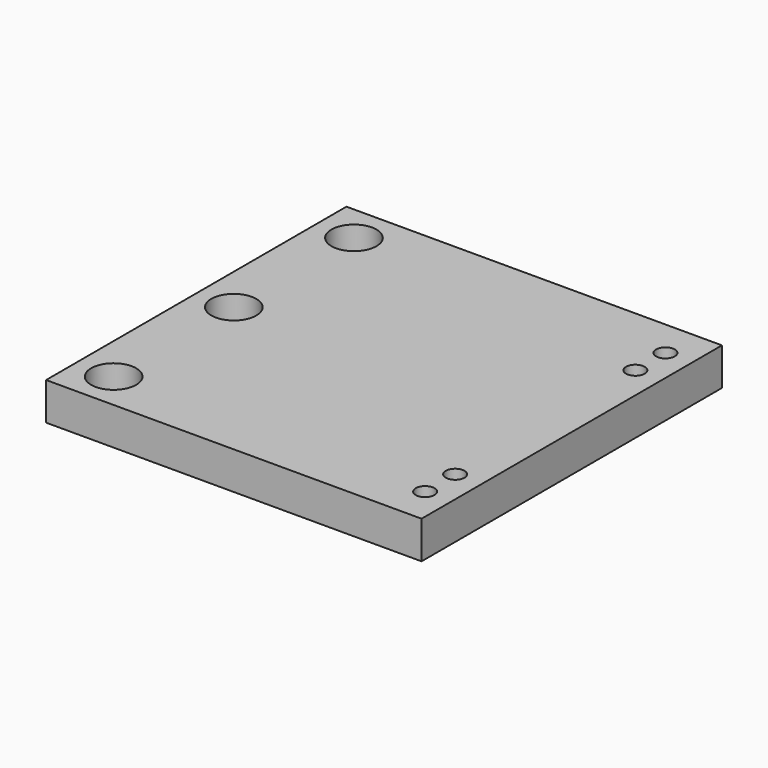
from build123d import *

# Parameters (mm, degrees)
F0_W     = 127
F0_H     = 127
F1_DEPTH = 12.7
F3_D     = 15.24
F3_DEPTH = 12.7
F5_D     = 6.35
F5_DEPTH = 12.7


with BuildPart() as f1:
    # F0 (on Top) → F1 (new body)
    with BuildSketch(Plane.XY):
        with Locations((10.277962, -0.006821)):
            Rectangle(F0_W, F0_H)
    extrude(amount=F1_DEPTH)

    # F3
    with Locations(Plane.XY.offset(12.7)):
        with Locations((-40.522038, 50.793179), (-40.522038, 0), (-40.522038, -50.806821)):
            Hole(F3_D / 2, depth=F3_DEPTH)

    # F5
    with Locations(Plane.XY.offset(12.7)):
        with Locations((64.830244, -38.106821), (64.830244, 50.793179), (64.830244, 38.093179), (64.830244, -50.806821)):
            Hole(F5_D / 2, depth=F5_DEPTH)


solid = f1.part
